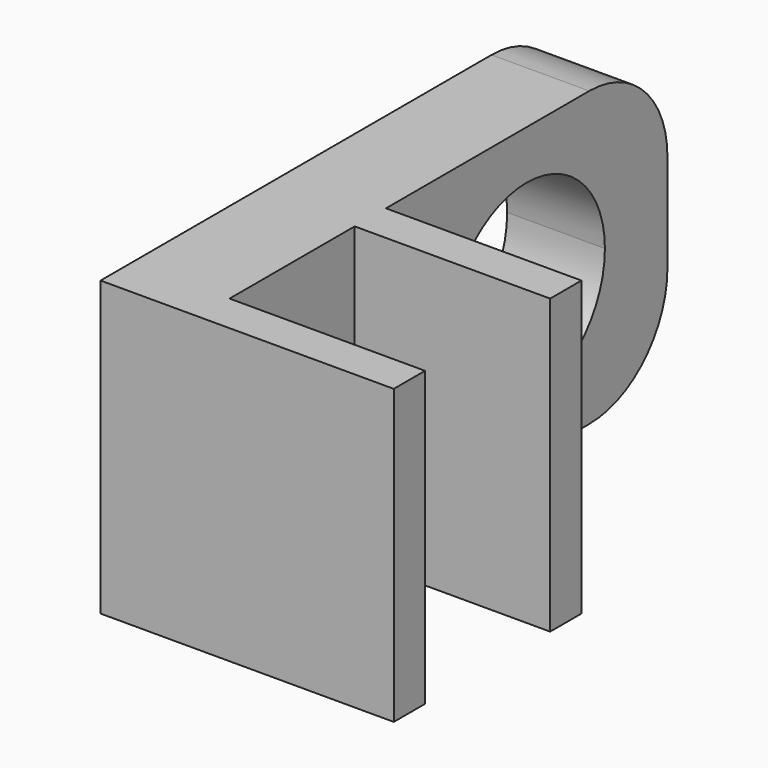
from build123d import *

# Parameters (mm, degrees)
F0_W     = 10
F0_H     = 2
F1_DEPTH = 15
F3_DEPTH = 5
F4_R     = 5


with BuildPart() as f1:
    # F0 (on Top) → F1 (new body)
    with BuildSketch(Plane.XY):
        with Locations((10, 1)):
            Rectangle(F0_W, F0_H)
        with Locations((10, 11)):
            Rectangle(F0_W, F0_H)
        Polygon((0, 30), (0, 0), (5, 0), (5, 2), (5, 10), (5, 12), (5, 30), align=None)
    extrude(amount=F1_DEPTH)

    # F2 (on face) → F3 (cut, through all)
    with BuildSketch(Plane.YZ.offset(5)):
        with BuildLine():
            Line((21, 7.5), (21, 12.5))
            ThreePointArc((21, 12.5), (17.464466, 11.035534), (16, 7.5))
            Line((16, 7.5), (21, 7.5))
        make_face()
        with BuildLine():
            ThreePointArc((21, 2.5), (24.535534, 3.964466), (26, 7.5))
            Line((26, 7.5), (21, 7.5))
            Line((21, 7.5), (21, 2.5))
        make_face()
        with BuildLine():
            ThreePointArc((16, 7.5), (17.464466, 3.964466), (21, 2.5))
            Line((21, 2.5), (21, 7.5))
            Line((21, 7.5), (16, 7.5))
        make_face()
        with BuildLine():
            Line((21, 7.5), (26, 7.5))
            ThreePointArc((26, 7.5), (24.535534, 11.035534), (21, 12.5))
            Line((21, 12.5), (21, 7.5))
        make_face()
    extrude(amount=-F3_DEPTH, mode=Mode.SUBTRACT)

    # F4
    f4_edges = [f1.edges().sort_by_distance(p)[0] for p in [
        (2.5, 30, 15),
        (2.5, 30, 0),
    ]]
    fillet(f4_edges, radius=F4_R)


solid = f1.part
